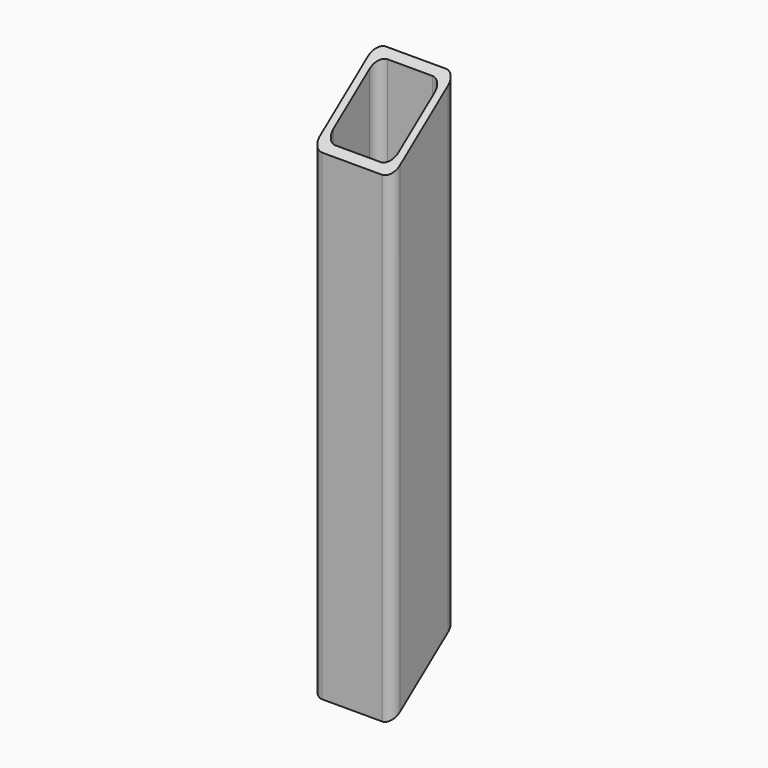
from build123d import *

# Parameters (mm, degrees)
F1_DEPTH      = 344.678
F3_DEPTH      = 25.401
F3_DEPTH_BACK = 25.401


with BuildPart() as f1:
    # F0 (on Top) → F1 (new body)
    with BuildSketch(Plane.XY):
        with BuildLine():
            ThreePointArc((25.4, 19.05), (23.5401280605, 23.5401280605), (19.05, 25.4))
            Line((19.05, 25.4), (-19.05, 25.4))
            ThreePointArc((-19.05, 25.4), (-23.5401280605, 23.5401280605), (-25.4, 19.05))
            Line((-25.4, 19.05), (-25.4, -19.05))
            ThreePointArc((-25.4, -19.05), (-23.5401280605, -23.5401280605), (-19.05, -25.4))
            Line((-19.05, -25.4), (19.05, -25.4))
            ThreePointArc((19.05, -25.4), (23.5401280605, -23.5401280605), (25.4, -19.05))
            Line((25.4, -19.05), (25.4, 19.05))
        make_face()
        with BuildLine():
            Line((-14.2875, 20.6375), (14.2875, 20.6375))
            ThreePointArc((14.2875, 20.6375), (18.7776280605, 18.7776280605), (20.6375, 14.2875))
            Line((20.6375, 14.2875), (20.6375, -14.2875))
            ThreePointArc((20.6375, -14.2875), (18.7776280605, -18.7776280605), (14.2875, -20.6375))
            Line((14.2875, -20.6375), (-14.2875, -20.6375))
            ThreePointArc((-14.2875, -20.6375), (-18.7776280605, -18.7776280605), (-20.6375, -14.2875))
            Line((-20.6375, -14.2875), (-20.6375, 14.2875))
            ThreePointArc((-20.6375, 14.2875), (-18.7776280605, 18.7776280605), (-14.2875, 20.6375))
        make_face(mode=Mode.SUBTRACT)
    extrude(amount=F1_DEPTH)

    # F2 (on Right) → F3 (cut, two sides)
    with BuildSketch(Plane.YZ) as f3_sk:
        Polygon((-25.4, 0), (25.4, 0), (25.4, 38.6992294205), align=None)
        Polygon((-25.4, 305.9787705795), (25.4, 344.678), (-25.4, 344.678), align=None)
    extrude(amount=-F3_DEPTH, mode=Mode.SUBTRACT)
    extrude(f3_sk.sketch, amount=F3_DEPTH_BACK, mode=Mode.SUBTRACT)


solid = f1.part
